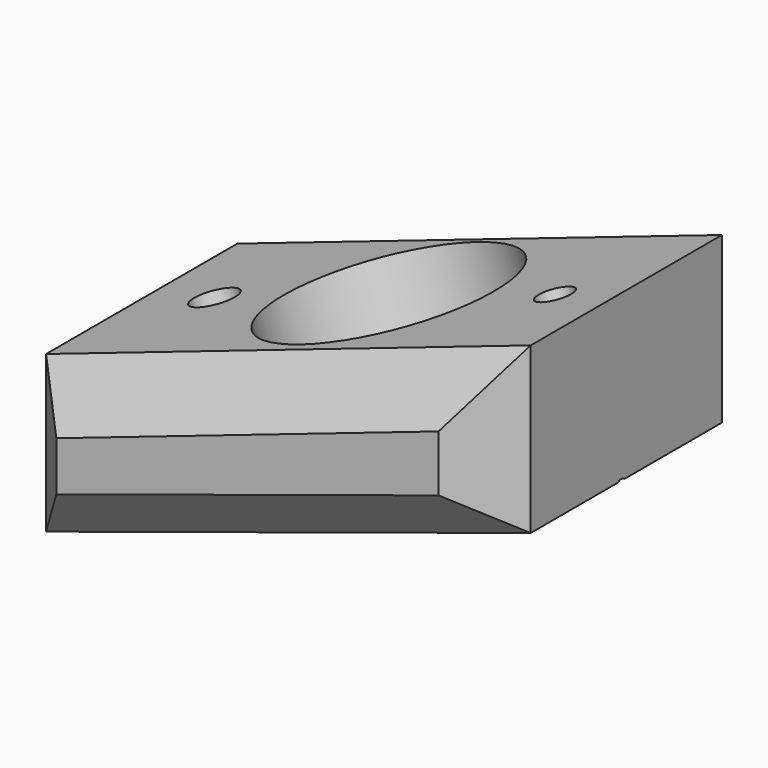
from build123d import *

# Parameters (mm, degrees)
F1_DEPTH = 50.8
F3_D     = 33.02
F4_SIZE  = 7.62
F5_SIZE  = 7.62
F7_D     = 5.08
F9_D     = 6.35


with BuildPart() as f1:
    # F0 (on Front) → F1 (new body)
    with BuildSketch(Plane.XZ):
        Polygon((72.081462, 24.570465), (0, 0), (0, -23.26379), (72.081462, 0), align=None)
    extrude(amount=F1_DEPTH)

    # F3 (through all)
    with Locations(Plane(origin=(0, 0, 0), x_dir=(0.946521, 0, 0.322641), z_dir=(-0.322641, 0, 0.946521))):
        with Locations((38.495995, -25.001924)):
            Hole(F3_D / 2)

    # F4
    f4_edges = [f1.edges().sort_by_distance(p)[0] for p in [
        (36.040731, -50.8, -11.631895),
        (72.081462, -50.8, 12.285233),
        (36.040731, -50.8, 12.285233),
        (0, -50.8, -11.631895),
    ]]
    chamfer(f4_edges, length=F4_SIZE)

    # F5
    f5_edges = [f1.edges().sort_by_distance(p)[0] for p in [
        (36.040731, 0, -11.631895),
        (72.081462, 0, 12.285233),
        (36.040731, 0, 12.285233),
        (0, 0, -11.631895),
    ]]
    chamfer(f5_edges, length=F5_SIZE)

    # F7 (through all)
    with Locations(Plane(origin=(0, 0, 0), x_dir=(0.946521, 0, 0.322641), z_dir=(-0.322641, 0, 0.946521))):
        with Locations((65.759569, -26.372515)):
            Hole(F7_D / 2)

    # F9 (through all)
    with Locations(Plane(origin=(0, 0, 0), x_dir=(0.946521, 0, 0.322641), z_dir=(-0.322641, 0, 0.946521))):
        with Locations((11.439297, -25.4)):
            Hole(F9_D / 2)


solid = f1.part
